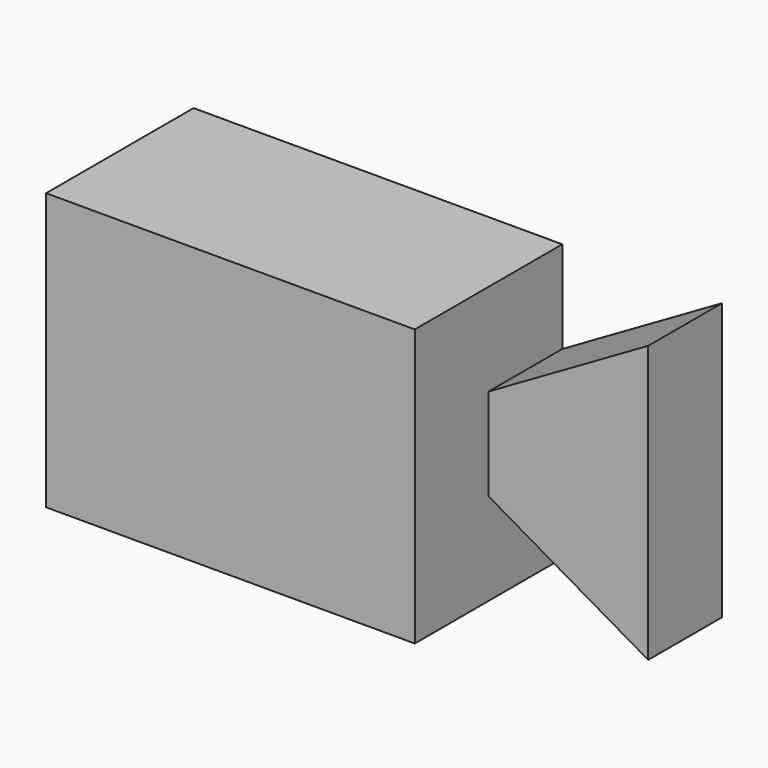
from build123d import *

# Parameters (mm, degrees)
F1_DEPTH = 50.8
F2_DEPTH = 25.4


with BuildPart() as f1:
    # F0 (on Front) → F1 (new body)
    with BuildSketch(Plane.XZ):
        Polygon((0, -25.4), (0, 0), (-101.6, 0), (-101.6, -76.2), (0, -76.2), (0, -50.8), align=None)
    extrude(amount=F1_DEPTH)

    # F0 (on Front) → F2 (join)
    with BuildSketch(Plane.XZ):
        Polygon((43.994091, 0), (0, -25.4), (0, -50.8), (43.994091, -76.2), align=None)
    extrude(amount=F2_DEPTH)


solid = f1.part
